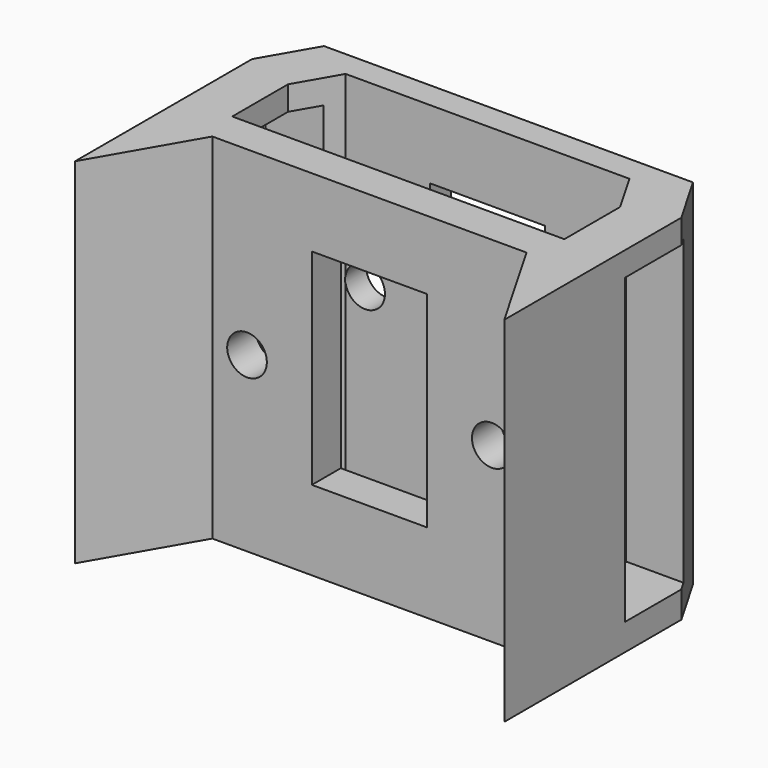
from build123d import *

# Parameters (mm, degrees)
PAD017_DEPTH       = 40
SKETCH041_W        = 13
SKETCH041_H        = 23.22
POCKET003014_DEPTH = 31.179264
POCKET003015_DEPTH = 40.001
SKETCH043_W        = 9.077184
SKETCH043_H        = 34.246025
POCKET003016_DEPTH = 49.253641
SKETCH050_R        = 2.24
POCKET003019_DEPTH = 31.179264


with BuildPart() as part:
    # Sketch040 → Pad017 (new body)
    with BuildSketch(Plane.XY):
        Polygon((-20.846346, 70.735185), (20.846346, 70.735185), (24.252641, 64.833161), (24.252641, 39.821736), (17.75, 51.08874), (-17.75, 51.08874), (-24.252641, 39.821736), (-24.252641, 64.833161), align=None)
    extrude(amount=PAD017_DEPTH)

    # Sketch041 → Pocket003014 (cut, through all)
    with BuildSketch(Plane.XZ.offset(-71)):
        with Locations((0, 20.61)):
            Rectangle(SKETCH041_W, SKETCH041_H)
    extrude(amount=POCKET003014_DEPTH, mode=Mode.SUBTRACT)

    # Sketch042 → Pocket003015 (cut, through all)
    with BuildSketch(Plane.XY.offset(40)):
        Polygon((-16.036429, 67.772269), (16.036429, 67.772269), (18.76456, 63.045287), (18.76456, 55.171417), (-18.76456, 55.171417), (-18.76456, 63.045287), align=None)
    extrude(amount=-POCKET003015_DEPTH, mode=Mode.SUBTRACT)

    # Sketch043 → Pocket003016 (cut, through all)
    with BuildSketch(Plane.YZ.offset(25)):
        with Locations((61.40538, 20.140725)):
            Rectangle(SKETCH043_W, SKETCH043_H)
    extrude(amount=-POCKET003016_DEPTH, mode=Mode.SUBTRACT)

    # Sketch050 → Pocket003019 (cut, through all)
    with BuildSketch(Plane.XZ.offset(-71)):
        with Locations((-13.83, 19.55)):
            Circle(SKETCH050_R)
        with Locations((13.83, 19.55)):
            Circle(SKETCH050_R)
    extrude(amount=POCKET003019_DEPTH, mode=Mode.SUBTRACT)


solid = part.part
